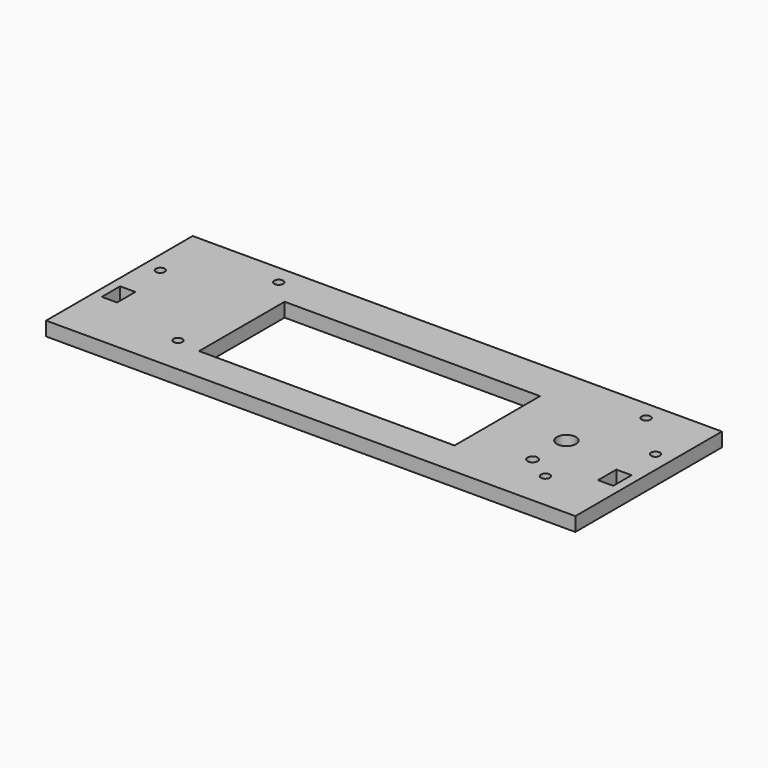
from build123d import *

# Parameters (mm, degrees)
F0_W     = 208
F0_H     = 72
F0_R     = 1.75
F0_W_2   = 6
F0_H_2   = 9
F0_W_3   = 100.394129
F0_H_3   = 42
F0_R_2   = 2
F0_R_3   = 3.75
F1_DEPTH = 5.5


with BuildPart() as f1:
    # F0 (on Top) → F1 (new body)
    with BuildSketch(Plane.XY):
        with Locations((-8.396824, -6.742854)):
            Rectangle(F0_W, F0_H)
        with Locations((-72.564889, -27.742854)):
            Circle(F0_R, mode=Mode.SUBTRACT)
        with Locations((-105.896824, -15.242854)):
            Rectangle(F0_W_2, F0_H_2, mode=Mode.SUBTRACT)
        with Locations((-12.867824, -8.242854)):
            Rectangle(F0_W_3, F0_H_3, mode=Mode.SUBTRACT)
        with Locations((71.82924, -27.742854)):
            Circle(F0_R, mode=Mode.SUBTRACT)
        with Locations((61.82924, -21.492854)):
            Circle(F0_R_2, mode=Mode.SUBTRACT)
        with Locations((89.103176, -15.242854)):
            Rectangle(F0_W_2, F0_H_2, mode=Mode.SUBTRACT)
        with Locations((-105.896824, 5.257146)):
            Circle(F0_R, mode=Mode.SUBTRACT)
        with Locations((-72.564889, 21.757146)):
            Circle(F0_R, mode=Mode.SUBTRACT)
        with Locations((62.07924, -5.242854)):
            Circle(F0_R_3, mode=Mode.SUBTRACT)
        with Locations((89.103176, 4.757146)):
            Circle(F0_R, mode=Mode.SUBTRACT)
        with Locations((71.82924, 21.757146)):
            Circle(F0_R, mode=Mode.SUBTRACT)
    extrude(amount=F1_DEPTH)


solid = f1.part
